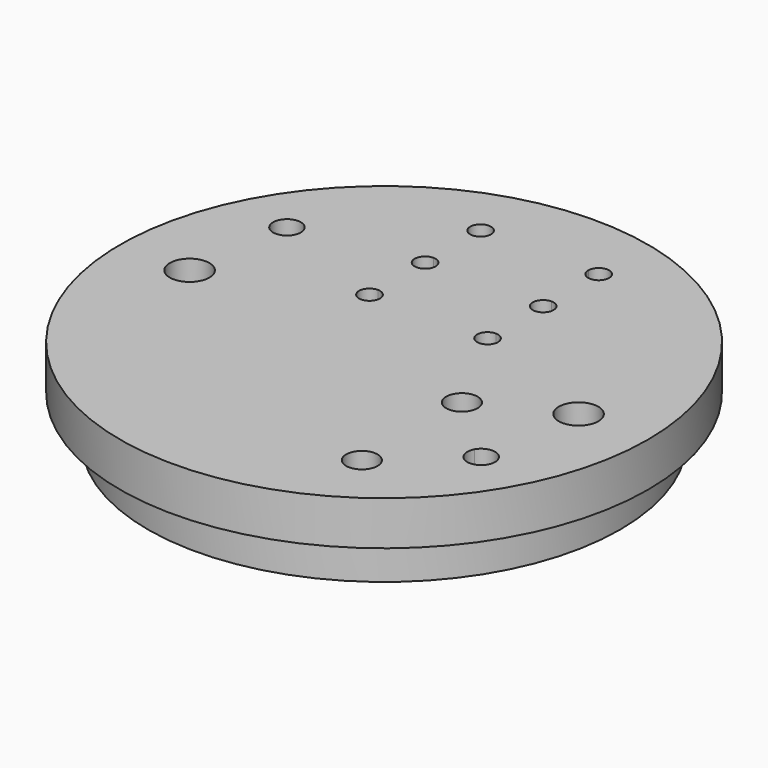
from build123d import *

# Parameters (mm, degrees)
F0_R     = 19
F0_R_2   = 1
F0_R_3   = 1.4224
F1_DEPTH = 3.175
F3_DEPTH = 25
F4_R     = 1.1303
F5_DEPTH = 25
F6_R     = 17
F6_R_2   = 0.75
F6_R_3   = 1
F6_R_4   = 1.5
F6_R_5   = 12
F6_R_6   = 1.25
F7_DEPTH = 3.175


with BuildPart() as f1:
    # F0 (on Top) → F1 (new body)
    with BuildSketch(Plane.XY):
        Circle(F0_R)
        with Locations((-7.5, -12.9903810568)):
            Circle(F0_R_2, mode=Mode.SUBTRACT)
        with BuildLine():
            ThreePointArc((13.9903810568, -7.5), (12.7315620117, -8.4659258263), (12.124355653, -7))
            ThreePointArc((12.124355653, -7), (13.2492001019, -6.5340741737), (13.9903810568, -7.5))
        make_face(mode=Mode.SUBTRACT)
        with Locations((-14, 0)):
            Circle(F0_R_3, mode=Mode.SUBTRACT)
        with Locations((-12.9903810568, 7.5)):
            Circle(F0_R_2, mode=Mode.SUBTRACT)
        with BuildLine():
            ThreePointArc((15.4224, 0), (14, -1.4224), (12.5776, 0))
            ThreePointArc((12.5776, 0), (14, 1.4224), (15.4224, 0))
        make_face(mode=Mode.SUBTRACT)
        with Locations((7.5, 12.9903810568)):
            Circle(F0_R_2, mode=Mode.SUBTRACT)
        with Locations((-7.5, -12.9903810568)):
            Circle(F0_R_2)
        with Locations((7.5, 12.9903810568)):
            Circle(F0_R_2)
    extrude(amount=F1_DEPTH)

    # F2 (on face) → F3 (cut)
    with BuildSketch(Plane.XY.offset(3.175)):
        with BuildLine():
            Line((-4.25, 13.25), (-4.25, 14))
            Line((-4.25, 14), (-3.5, 14))
            ThreePointArc((-3.5, 14), (-4.7803300859, 14.5303300859), (-4.25, 13.25))
        make_face()
        with BuildLine():
            Line((-3.5, 14), (-4.25, 14))
            Line((-4.25, 14), (-4.25, 13.25))
            ThreePointArc((-4.25, 13.25), (-3.7196699141, 13.4696699141), (-3.5, 14))
        make_face()
        with BuildLine():
            ThreePointArc((5, 4), (4.7803300859, 4.5303300859), (4.25, 4.75))
            ThreePointArc((4.25, 4.75), (3.7196699141, 3.4696699141), (5, 4))
        make_face()
        with BuildLine():
            ThreePointArc((5, 9), (4.7803300859, 9.5303300859), (4.25, 9.75))
            Line((4.25, 9.75), (4.25, 9))
            Line((4.25, 9), (4.25, 8.25))
            ThreePointArc((4.25, 8.25), (4.7803300859, 8.4696699141), (5, 9))
        make_face()
        with BuildLine():
            Line((4.25, 9), (4.25, 9.75))
            ThreePointArc((4.25, 9.75), (3.5, 9), (4.25, 8.25))
            Line((4.25, 8.25), (4.25, 9))
        make_face()
        with BuildLine():
            ThreePointArc((5, 14), (4.25, 14.75), (3.5, 14))
            Line((3.5, 14), (4.25, 14))
            Line((4.25, 14), (4.25, 13.25))
            ThreePointArc((4.25, 13.25), (4.7803300859, 13.4696699141), (5, 14))
        make_face()
        with BuildLine():
            Line((4.25, 14), (3.5, 14))
            ThreePointArc((3.5, 14), (3.7196699141, 13.4696699141), (4.25, 13.25))
            Line((4.25, 13.25), (4.25, 14))
        make_face()
        with BuildLine():
            ThreePointArc((-3.5, 4), (-3.7196699141, 4.5303300859), (-4.25, 4.75))
            ThreePointArc((-4.25, 4.75), (-4.7803300859, 3.4696699141), (-3.5, 4))
        make_face()
        with BuildLine():
            ThreePointArc((-3.5, 9), (-3.7196699141, 9.5303300859), (-4.25, 9.75))
            Line((-4.25, 9.75), (-4.25, 9))
            Line((-4.25, 9), (-4.25, 8.25))
            ThreePointArc((-4.25, 8.25), (-3.7196699141, 8.4696699141), (-3.5, 9))
        make_face()
        with BuildLine():
            Line((-4.25, 9), (-4.25, 9.75))
            ThreePointArc((-4.25, 9.75), (-5, 9), (-4.25, 8.25))
            Line((-4.25, 8.25), (-4.25, 9))
        make_face()
    extrude(amount=-F3_DEPTH, mode=Mode.SUBTRACT)

    # F4 (on face) → F5 (cut)
    with BuildSketch(Plane.XY.offset(3.175)):
        with Locations((8, -3)):
            Circle(F4_R)
        with Locations((8, -12)):
            Circle(F4_R)
    extrude(amount=-F5_DEPTH, mode=Mode.SUBTRACT)


with BuildPart() as f7:
    # F6 (on face) → F7 (new body)
    with BuildSketch(Plane(origin=(0, 0, 0), x_dir=(1, 0, 0), z_dir=(0, 0, -1))):
        Circle(F6_R)
        with Locations((-4.25, -14)):
            Circle(F6_R_2, mode=Mode.SUBTRACT)
        with Locations((-12.9903810568, -7.5)):
            Circle(F6_R_3, mode=Mode.SUBTRACT)
        with Locations((4.25, -14)):
            Circle(F6_R_2, mode=Mode.SUBTRACT)
        with Locations((-14, 0)):
            Circle(F6_R_4, mode=Mode.SUBTRACT)
        Circle(F6_R_5, mode=Mode.SUBTRACT)
        with Locations((14, 0)):
            Circle(F6_R_4, mode=Mode.SUBTRACT)
        with Locations((12.9903810568, 7.5)):
            Circle(F6_R_3, mode=Mode.SUBTRACT)
        with Locations((8, 12)):
            Circle(F6_R_6, mode=Mode.SUBTRACT)
    extrude(amount=F7_DEPTH)


solid = Compound([f1.part, f7.part])
